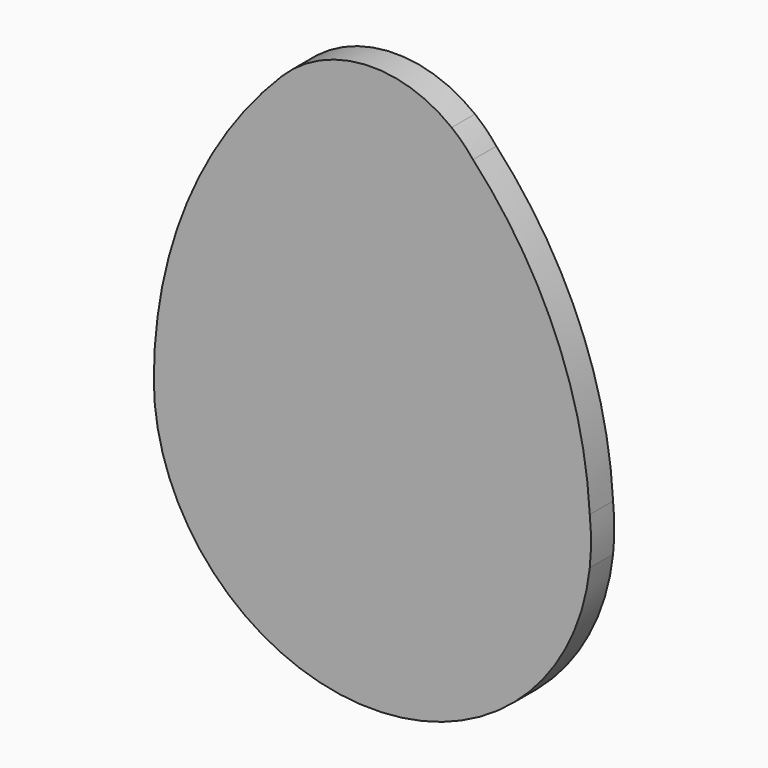
from build123d import *

# Parameters (mm, degrees)
F1_DEPTH = 3


with BuildPart() as f1:
    # F0 (on Front) → F1 (new body)
    with BuildSketch(Plane.XZ):
        with BuildLine():
            ThreePointArc((-9.319805, 31.819805), (-19.074579, 17.220754), (-22.5, 0))
            ThreePointArc((-22.5, 0), (-1.209572, -22.467464), (22.36995, -2.415646))
            ThreePointArc((22.36995, -2.415646), (22.434928, 0), (22.36995, 2.415646))
            ThreePointArc((22.36995, 2.415646), (18.847563, 17.593372), (10.353786, 30.655774))
            ThreePointArc((10.353786, 30.655774), (9.273792, 31.773792), (8.155774, 32.853786))
            ThreePointArc((8.155774, 32.853786), (-0.778474, 35.657185), (-9.319805, 31.819805))
        make_face()
        with BuildLine():
            ThreePointArc((22.36995, 2.415646), (22.434928, 0), (22.36995, -2.415646))
            ThreePointArc((22.36995, -2.415646), (22.5, 0), (22.36995, 2.415646))
        make_face()
        with BuildLine():
            ThreePointArc((10.353786, 30.655774), (9.319805, 31.819805), (8.155774, 32.853786))
            ThreePointArc((8.155774, 32.853786), (9.273792, 31.773792), (10.353786, 30.655774))
        make_face()
    extrude(amount=F1_DEPTH)


solid = f1.part
